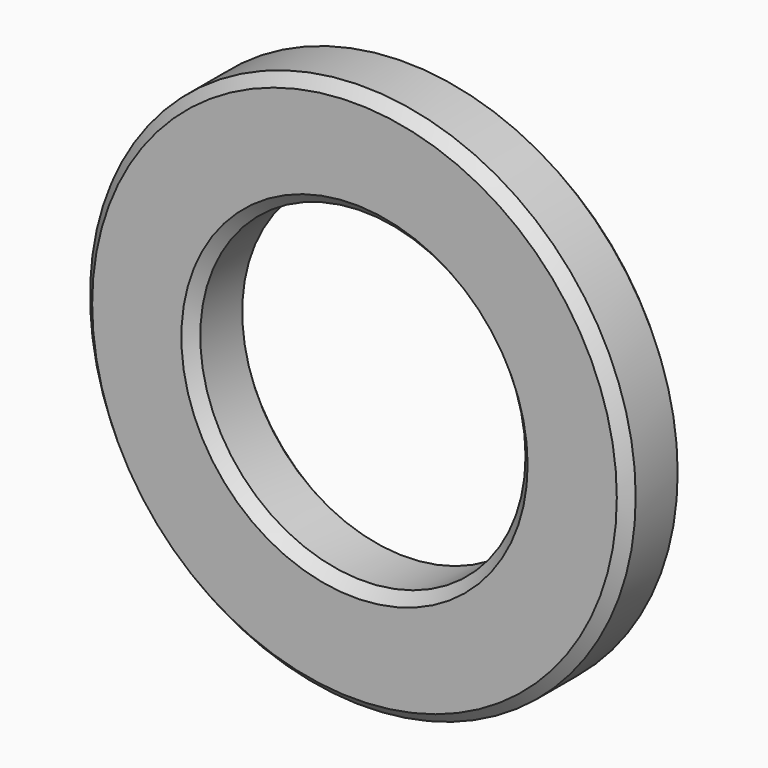
from build123d import *

# Parameters (mm, degrees)
F0_R     = 13
F0_R_2   = 7.75
F1_DEPTH = 3.5
F2_SIZE2 = 0.5
F2_SIZE  = 0.5


with BuildPart() as f1:
    # F0 (on Front) → F1 (new body)
    with BuildSketch(Plane.XZ):
        Circle(F0_R)
        Circle(F0_R_2, mode=Mode.SUBTRACT)
    extrude(amount=F1_DEPTH)

    # F2
    f2_edges = [f1.edges().sort_by_distance(p)[0] for p in [
        (-13, -3.5, 0),
        (-7.75, -3.5, 0),
        (-13, 0, 0),
        (-7.75, 0, 0),
    ]]
    chamfer(f2_edges, length=F2_SIZE, length2=F2_SIZE2)


solid = f1.part
